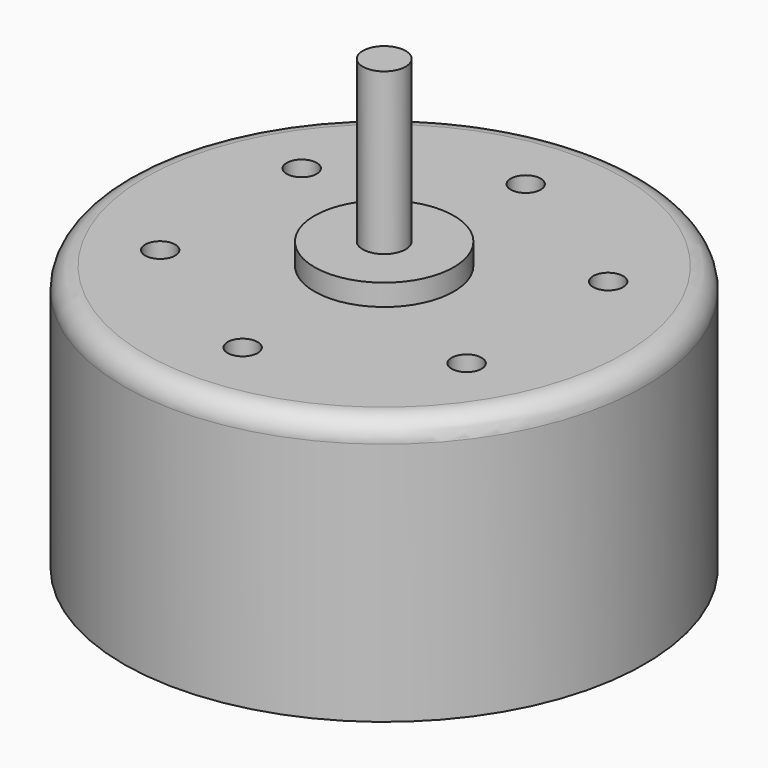
from build123d import *

# Parameters (mm, degrees)
F2_R     = 0.7
F3_DEPTH = 4
F4_R     = 1


with BuildPart() as f1:
    # F0 (on Front) → F1 (revolve)
    with BuildSketch(Plane.XZ):
        Polygon((0, -1.1), (0, 0), (0, 20.9), (-1, 20.9), (-1, 13.4), (-3.25, 13.4), (-3.25, 12.4), (-12.15, 12.4), (-12.15, 0), (-1.966873, 0), (-1.966873, -1.1), align=None)
    revolve(axis=Axis((0, 0, 10.45), (0, 0, 1)))

    # F2 (on face) → F3 (cut)
    with BuildSketch(Plane.XY.offset(12.4)):
        with BuildLine():
            ThreePointArc((0, 7.55), (0.494975, 7.755025), (0.7, 8.25))
            ThreePointArc((0.7, 8.25), (-0.494975, 8.744975), (0, 7.55))
        make_face()
        with Locations((-7.14471, 4.125)):
            Circle(F2_R)
        with Locations((-7.14471, -4.125)):
            Circle(F2_R)
        with Locations((0, -8.25)):
            Circle(F2_R)
        with Locations((7.14471, -4.125)):
            Circle(F2_R)
        with Locations((7.14471, 4.125)):
            Circle(F2_R)
    extrude(amount=-F3_DEPTH, mode=Mode.SUBTRACT)

    # F4
    f4_edges = [f1.edges().sort_by_distance(p)[0] for p in [
        (12.15, 0, 12.4),
    ]]
    fillet(f4_edges, radius=F4_R)


solid = f1.part
